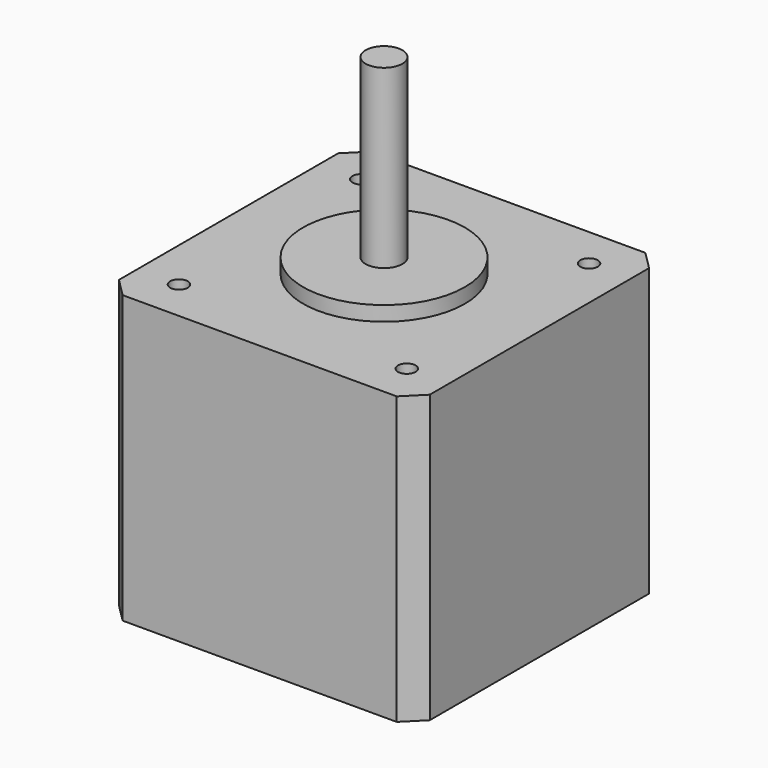
from build123d import *

# Parameters (mm, degrees)
F0_W     = 42.3
F0_H     = 42.3
F1_DEPTH = 39
F2_R     = 11
F3_DEPTH = 2
F4_R     = 2.5
F5_DEPTH = 24
F6_SIZE  = 2.5
F8_D     = 2.4
F8_DEPTH = 12
F8_TIP   = 0.7210327428


with BuildPart() as f1:
    # F0 (on Top) → F1 (new body)
    with BuildSketch(Plane.XY):
        with Locations((21.15, 21.15)):
            Rectangle(F0_W, F0_H)
    extrude(amount=F1_DEPTH)

    # F2 (on face) → F3 (join)
    with BuildSketch(Plane.XY.offset(39)):
        with Locations((21.15, 21.15)):
            Circle(F2_R)
    extrude(amount=F3_DEPTH)

    # F4 (on face) → F5 (join)
    with BuildSketch(Plane.XY.offset(41)):
        with Locations((21.15, 21.15)):
            Circle(F4_R)
    extrude(amount=F5_DEPTH)

    # F6
    f6_edges = [f1.edges().sort_by_distance(p)[0] for p in [
        (42.3, 0, 19.5),
        (42.3, 42.3, 19.5),
        (0, 0, 19.5),
        (0, 42.3, 19.5),
    ]]
    chamfer(f6_edges, length=F6_SIZE)

    # F8
    with Locations(Plane.XY.offset(39)):
        with Locations((5.65, 36.65), (36.65, 36.65), (36.65, 5.65), (5.65, 5.65)):
            Hole(F8_D / 2, depth=F8_DEPTH)
            with Locations((0, 0, -(F8_DEPTH + F8_TIP / 2))):  # 118° drill point
                Cone(0, F8_D / 2, F8_TIP, mode=Mode.SUBTRACT)


solid = f1.part
